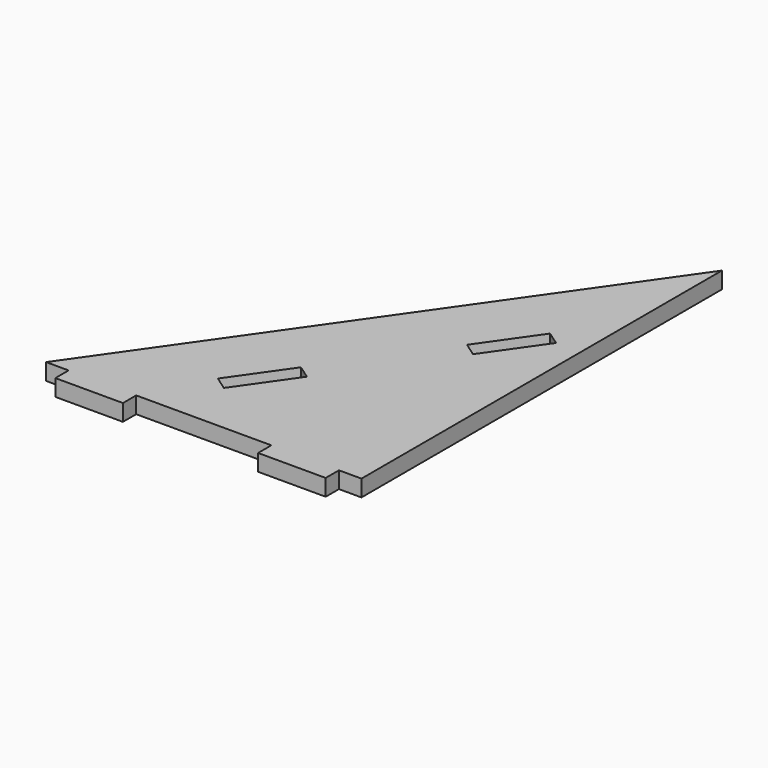
from build123d import *

# Parameters (mm, degrees)
F1_DEPTH = 18.6944


with BuildPart() as f1:
    # F0 (on Top) → F1 (new body)
    with BuildSketch(Plane.XY):
        Polygon((43.140249, 437.981573), (-312.459751, -70.018427), (-287.059751, -70.018427), (-287.059751, -88.712827), (-210.859751, -88.712827), (-210.859751, -70.018427), (-58.459751, -70.018427), (-58.459751, -88.712827), (17.740249, -88.712827), (17.740249, -70.018427), (43.140249, -70.018427), align=None)
        Polygon((-159.476273, -10.720534), (-174.791323, 0), (-131.093492, 62.425472), (-115.778443, 51.704938), align=None, mode=Mode.SUBTRACT)
        Polygon((0, 249.701889), (15.315049, 238.981355), (-28.382781, 176.555883), (-43.697831, 187.276417), align=None, mode=Mode.SUBTRACT)
    extrude(amount=F1_DEPTH)


solid = f1.part
